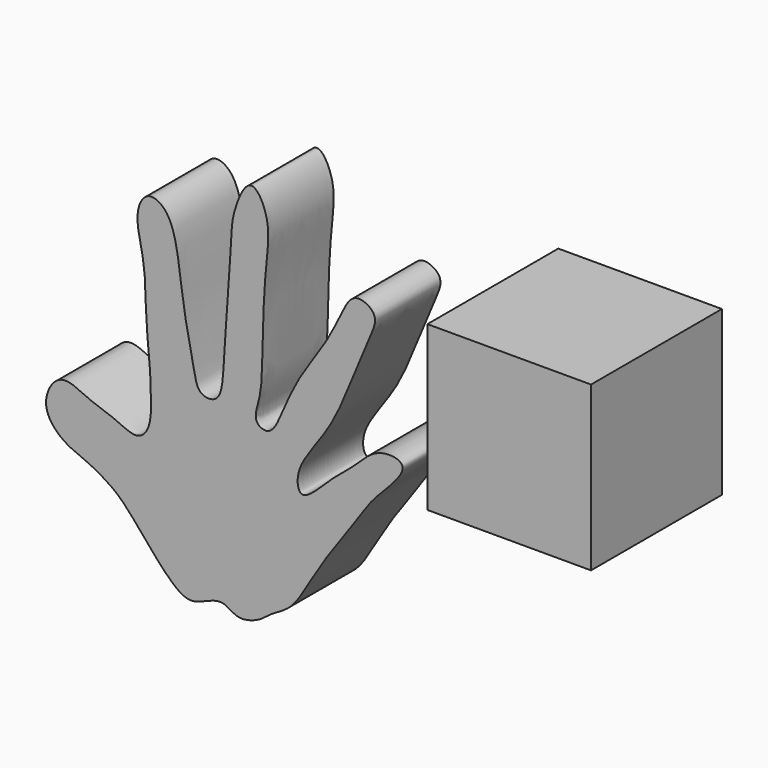
from build123d import *

# Parameters (mm, degrees)
F0_W     = 50
F0_H     = 50
F1_DEPTH = 50
F3_DEPTH = 25


with BuildPart() as f1:
    # F0 (on Top) → F1 (new body)
    with BuildSketch(Plane.XY):
        with Locations((-1.2722663581, 2.1456792951)):
            Rectangle(F0_W, F0_H)
    extrude(amount=F1_DEPTH)


with BuildPart() as f3:
    # F2 (on Front) → F3 (new body)
    with BuildSketch(Plane.XZ):
        with BuildLine():
            add(Edge.make_bspline(
                [(-107.2843000293, -38.5757610202), (-110.441185834, -35.0146368037), (-115.793161521, -28.2650043201), (-121.14916768, -23.3198926646), (-129.4777081111, -18.7554002686), (-135.6699250133, -16.865379364), (-143.4512975568, -8.9431011054), (-137.3491013025, 2.8678838806), (-128.0292455304, -2.7877011262), (-120.6668049385, -4.5423233927), (-113.318553561, -8.8233070618), (-108.885066266, -4.221828899), (-108.9517151704, 5.6572900751), (-109.515221894, 15.3786134954), (-110.7791086419, 25.5504373075), (-110.5341508944, 40.0279639488), (-114.4560436609, 51.5858184351), (-110.5448918617, 59.8799865223), (-101.4493322424, 55.5355927461), (-99.956638833, 34.4466963036), (-96.0068665343, 17.0816107417), (-94.7349358351, 9.595327307), (-87.7118947011, 9.289655535), (-86.7302346841, 19.8202246936), (-85.8657383892, 36.8629733452), (-84.4223164964, 53.7696929985), (-84.36621299, 62.070192614), (-78.6774556024, 75.1674132936), (-72.2252184766, 63.3104129064), (-74.1239865373, 51.455917814), (-75.1569910548, 29.0710913968), (-74.948989219, 16.0641836078), (-78.3037576945, 8.0657192256), (-72.1176947948, 5.3027849207), (-68.3429387668, 14.9614662248), (-63.4684299143, 25.316692038), (-55.1120625573, 36.5200022146), (-50.887574339, 45.9479782369), (-46.9764492678, 53.1123436582), (-38.9496728658, 48.9994591349), (-42.7985039744, 41.199340475), (-48.4584214041, 26.7121679441), (-53.9249458265, 14.1291506716), (-61.4175097443, 4.6279878923), (-64.8965174356, -2.2740203626), (-63.1648671638, -9.7053457661), (-53.5278153625, 1.0829696506), (-46.7377402209, 5.6516531402), (-40.2768179298, 13.4460575385), (-27.7077568747, 11.7234063388), (-41.2794784488, -0.6340070117), (-44.5286589854, -6.1767238204), (-54.4079358005, -19.6608651626), (-59.9259870706, -28.4352047913), (-65.7232099567, -38.8818358132), (-71.9331522979, -41.4705720796), (-75.4609622868, -45.0220919251), (-82.4393495435, -47.2498208972), (-86.4101576977, -43.4508578716), (-90.4973035401, -44.2048777855), (-95.032083464, -46.4878514933), (-99.7300800515, -46.5612267073), (-104.4355982817, -41.7892382907), (-107.2843000293, -38.5757610202)],
                knots=[0, 0, 0, 0, 0.0196031774, 0.034181751, 0.0502280092, 0.0641527218, 0.0807426018, 0.0971280204, 0.1129301309, 0.1284227671, 0.1429449396, 0.1545942007, 0.1712144409, 0.1880644927, 0.2051770729, 0.2256114733, 0.2444178402, 0.2582120261, 0.2718650602, 0.2963311715, 0.3196296835, 0.3330300369, 0.3442123692, 0.3600484932, 0.3829885144, 0.404813679, 0.4212099487, 0.4377347666, 0.4530176076, 0.4723859727, 0.4977387006, 0.517552926, 0.5317525128, 0.5421626935, 0.5578927663, 0.576712177, 0.5966546857, 0.6142460305, 0.6279936501, 0.6409460564, 0.6552417568, 0.6766843101, 0.6968444731, 0.7153429804, 0.7303250298, 0.7411005216, 0.758924189, 0.7755036006, 0.7922399291, 0.8062475411, 0.8257020117, 0.8410344982, 0.8622168331, 0.8802744168, 0.8982667299, 0.9116958739, 0.9236718144, 0.9373858795, 0.9491328017, 0.9595583598, 0.9714936283, 0.9823105398, 1, 1, 1, 1], degree=3))
        make_face()
    extrude(amount=F3_DEPTH)


solid = Compound([f1.part, f3.part])
